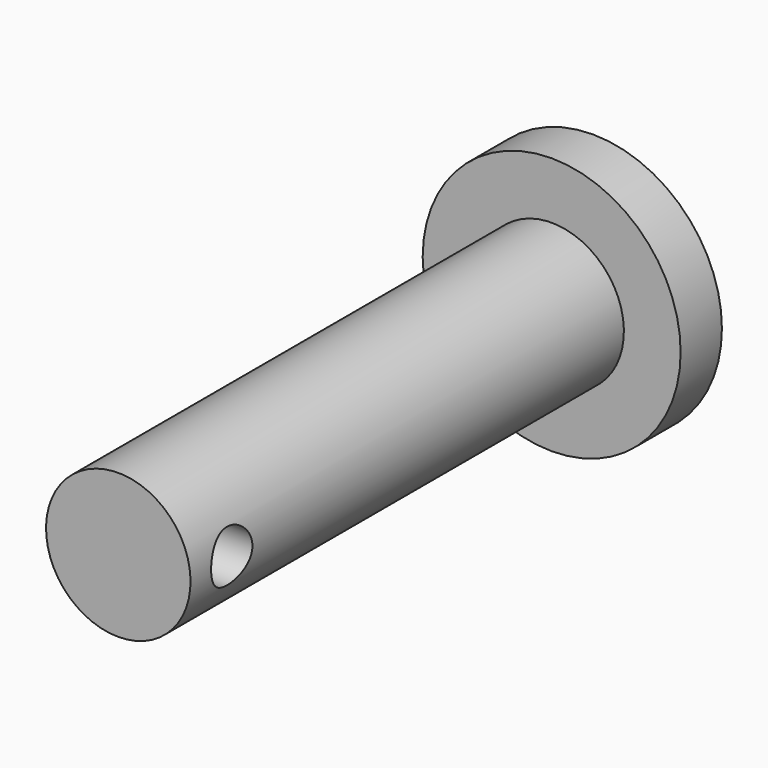
from build123d import *

# Parameters (mm, degrees)
SKETCH004_R            = 1
PAD004_DEPTH           = 10
CYLINDER009_R          = 2.8
CYLINDER009_DEPTH      = 21
CYLINDER010_R          = 5
CYLINDER010_DEPTH      = 2
CUT007_PITCH_ANGLE     = 90
CUT007_PLACEMENT_ANGLE = -90


with BuildPart() as pad004:
    # Sketch004 → Pad004 (new body)
    with BuildSketch(Plane(origin=(0, 4.2, 21), x_dir=(1, 0, 0), z_dir=(0, -1, 0))):
        Circle(SKETCH004_R)
    extrude(amount=PAD004_DEPTH)


with BuildPart() as eje:
    # Cylinder009 → Cylinder009 (new body)
    with BuildSketch(Plane.XY.offset(2)):
        Circle(CYLINDER009_R)
    extrude(amount=CYLINDER009_DEPTH)


with BuildPart() as eje_full:
    # Cylinder010 → Cylinder010 (new body)
    with BuildSketch(Plane.XY):
        Circle(CYLINDER010_R)
    extrude(amount=CYLINDER010_DEPTH)

    # Fusion009: union Eje
    add(eje.part)

    # Cut007: cut Pad004
    add(pad004.part, mode=Mode.SUBTRACT)


with BuildPart() as eje_full_1:
    # Cut007 pitch: moved
    add(eje_full.part.rotate(Axis((0, 0, 0), (0, 1, 0)), CUT007_PITCH_ANGLE))


with BuildPart() as eje_full_2:
    # Cut007 placement: moved
    add(eje_full_1.part.moved(Location((367.5, 84, 141))).rotate(Axis((367.5, 84, 141), (0, 0, 1)), CUT007_PLACEMENT_ANGLE))


solid = eje_full_2.part
